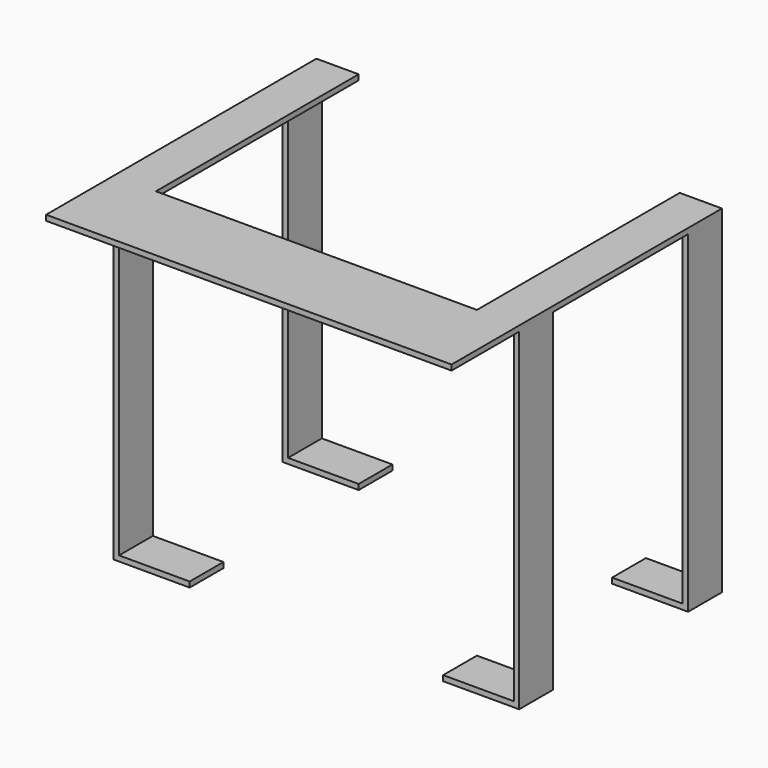
from build123d import *

# Parameters (mm, degrees)
F0_W     = 60.96
F0_H     = 50.8
F1_DEPTH = 0.8128
F2_W     = 48.26
F2_H     = 38.1
F3_DEPTH = 25.4
F4_W     = 0.8128
F4_H     = 6.35
F5_DEPTH = 50.8
F6_W     = 6.35
F6_H     = 0.8128
F7_DEPTH = 11.43
F8_W     = 6.35
F8_H     = 0.8128
F9_DEPTH = 11.43


with BuildPart() as f1:
    # F0 (on Top) → F1 (new body)
    with BuildSketch(Plane.XY):
        with Locations((30.48, 25.4)):
            Rectangle(F0_W, F0_H)
    extrude(amount=F1_DEPTH)

    # F2 (on face) → F3 (cut)
    with BuildSketch(Plane.XY.offset(0.8128)):
        with Locations((30.48, 31.75)):
            Rectangle(F2_W, F2_H)
    extrude(amount=-F3_DEPTH, mode=Mode.SUBTRACT)

    # F4 (on face) → F5 (join)
    with BuildSketch(Plane.XY.offset(0.8128)):
        with Locations((0.4064, 47.625)):
            Rectangle(F4_W, F4_H)
        with Locations((60.5536, 47.625)):
            Rectangle(F4_W, F4_H)
        with Locations((0.4064, 15.875)):
            Rectangle(F4_W, F4_H)
        with Locations((60.5536, 15.875)):
            Rectangle(F4_W, F4_H)
    extrude(amount=-F5_DEPTH)

    # F6 (on face) → F7 (join)
    with BuildSketch(Plane.YZ.offset(60.96)):
        with Locations((15.875, -49.5808)):
            Rectangle(F6_W, F6_H)
        with Locations((47.625, -49.5808)):
            Rectangle(F6_W, F6_H)
    extrude(amount=-F7_DEPTH)

    # F8 (on face) → F9 (join)
    with BuildSketch(Plane(origin=(0, 0, 0), x_dir=(0, -1, 0), z_dir=(-1, 0, 0))):
        with Locations((-47.625, -49.5808)):
            Rectangle(F8_W, F8_H)
        with Locations((-15.875, -49.5808)):
            Rectangle(F8_W, F8_H)
    extrude(amount=-F9_DEPTH)


solid = f1.part
